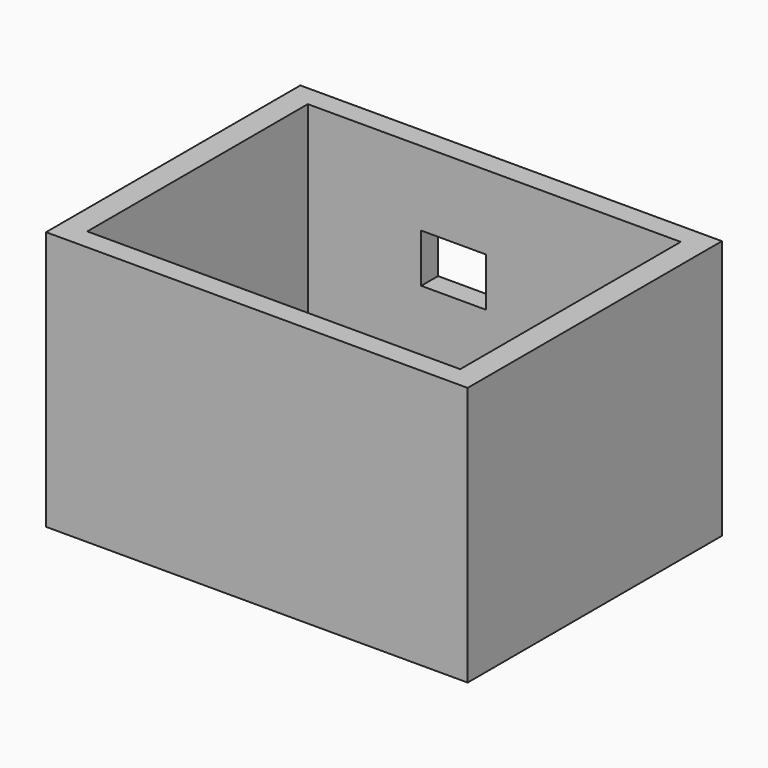
from build123d import *

# Parameters (mm, degrees)
F0_W     = 82.55
F0_H     = 62.23
F0_W_2   = 73.025
F0_H_2   = 53.975
F1_DEPTH = 50.8
F2_DEPTH = 6.35
F3_R     = 3.96875
F4_DEPTH = 4.1275
F3_W     = 12.7
F3_H     = 9.525
F5_DEPTH = 4.1275


with BuildPart() as f1:
    # F0 (on Top) → F1 (new body)
    with BuildSketch(Plane.XY):
        Rectangle(F0_W, F0_H)
        Rectangle(F0_W_2, F0_H_2, mode=Mode.SUBTRACT)
    extrude(amount=F1_DEPTH)

    # F0 (on Top) → F2 (join)
    with BuildSketch(Plane.XY):
        Rectangle(F0_W_2, F0_H_2)
    extrude(amount=F2_DEPTH)

    # F3 (on face) → F4 (cut, through all)
    with BuildSketch(Plane(origin=(0, 31.115, 0), x_dir=(-1, 0, 0), z_dir=(0, 1, 0))):
        with Locations((-23.491018, 30.719021)):
            Circle(F3_R)
    extrude(amount=-F4_DEPTH, mode=Mode.SUBTRACT)

    # F3 (on face) → F5 (cut, through all)
    with BuildSketch(Plane(origin=(0, 31.115, 0), x_dir=(-1, 0, 0), z_dir=(0, 1, 0))):
        with Locations((7.956224, 31.465962)):
            Rectangle(F3_W, F3_H)
    extrude(amount=-F5_DEPTH, mode=Mode.SUBTRACT)


solid = f1.part
